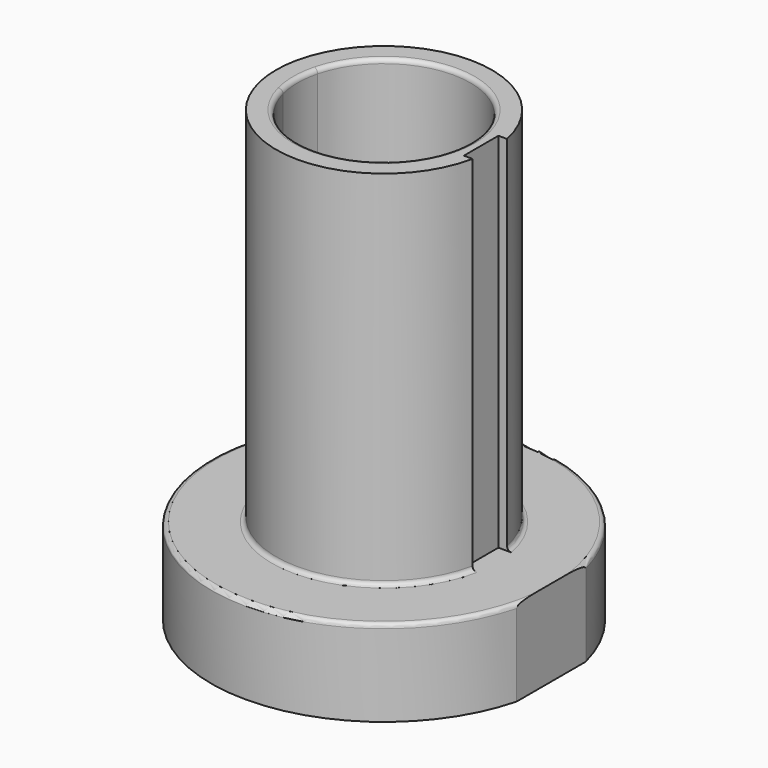
from build123d import *

# Parameters (mm, degrees)
F0_W     = 38.7298334621
F0_H     = 10
F1_DEPTH = 10
F3_DEPTH = 42
F4_R     = 0.5


with BuildPart() as f1:
    # F0 (on Top) → F1 (new body)
    with BuildSketch(Plane.XY):
        with BuildLine():
            Line((-19.364916731, 5), (19.364916731, 5))
            ThreePointArc((19.364916731, 5), (0, 20), (-19.364916731, 5))
        make_face()
        with BuildLine():
            Line((-19.364916731, -5), (-19.364916731, 5))
            ThreePointArc((-19.364916731, 5), (-20, 0), (-19.364916731, -5))
        make_face()
        with BuildLine():
            ThreePointArc((-19.364916731, -5), (0, -20), (19.364916731, -5))
            Line((19.364916731, -5), (-19.364916731, -5))
        make_face()
        Rectangle(F0_W, F0_H)
    extrude(amount=-F1_DEPTH)

    # F2 (on face) → F3 (join)
    with BuildSketch(Plane.XY):
        with BuildLine():
            Line((11.2474487139, 2.5), (12.2474487139, 2.5))
            ThreePointArc((12.2474487139, 2.5), (0, 12.5), (-12.2474487139, 2.5))
            Line((-12.2474487139, 2.5), (-9.6824583655, 2.5))
            ThreePointArc((-9.6824583655, 2.5), (0, 10), (9.6824583655, 2.5))
            Line((9.6824583655, 2.5), (11.2474487139, 2.5))
        make_face()
        with BuildLine():
            Line((11.2474487139, -2.5), (11.2474487139, 2.5))
            Line((11.2474487139, 2.5), (9.6824583655, 2.5))
            ThreePointArc((9.6824583655, 2.5), (9.9202969627, 1.2600429248), (10, 0))
            ThreePointArc((10, 0), (9.9202969627, -1.2600429248), (9.6824583655, -2.5))
            Line((9.6824583655, -2.5), (11.2474487139, -2.5))
        make_face()
        with BuildLine():
            ThreePointArc((-12.2474487139, -2.5), (0, -12.5), (12.2474487139, -2.5))
            Line((12.2474487139, -2.5), (11.2474487139, -2.5))
            Line((11.2474487139, -2.5), (9.6824583655, -2.5))
            ThreePointArc((9.6824583655, -2.5), (0, -10), (-9.6824583655, -2.5))
            Line((-9.6824583655, -2.5), (-12.2474487139, -2.5))
        make_face()
        with BuildLine():
            Line((-9.6824583655, 2.5), (-12.2474487139, 2.5))
            Line((-12.2474487139, 2.5), (-12.2474487139, -2.5))
            Line((-12.2474487139, -2.5), (-9.6824583655, -2.5))
            ThreePointArc((-9.6824583655, -2.5), (-10, 0), (-9.6824583655, 2.5))
        make_face()
        with BuildLine():
            Line((-12.2474487139, -2.5), (-12.2474487139, 2.5))
            ThreePointArc((-12.2474487139, 2.5), (-12.5, 0), (-12.2474487139, -2.5))
        make_face()
    extrude(amount=F3_DEPTH)

    # F4
    f4_edges = [f1.edges().sort_by_distance(p)[0] for p in [
        (9.682458, 2.5, 42),
        (-12.5, 0, 0),
        (-20, 0, 0),
    ]]
    fillet(f4_edges, radius=F4_R)


solid = f1.part
